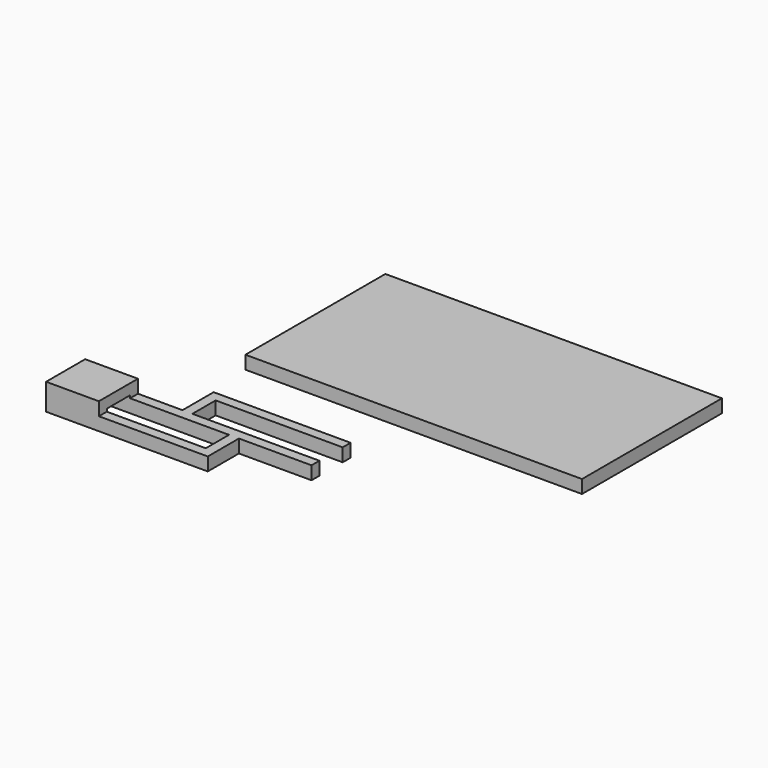
from build123d import *

# Parameters (mm, degrees)
F0_W      = 51
F0_H      = 26.5
F1_DEPTH  = 2
F2_W      = 24.5
F2_H      = 7.4
F3_DEPTH  = 4
F4_W      = 4.4
F4_H      = 2.4
F5_DEPTH  = 23
F6_W      = 16.5
F6_H      = 2
F7_DEPTH  = 49.6448081987
F10_R     = 1.5
F11_R     = 1.5
F14_W     = 1.5
F14_H     = 2
F15_DEPTH = 11
F16_W     = 1.5
F16_H     = 2
F17_DEPTH = 5.9
F18_W     = 1.5
F18_H     = 2
F19_DEPTH = 19.25


with BuildPart() as f1:
    # F0 (on Top) → F1 (new body)
    with BuildSketch(Plane.XY):
        Rectangle(F0_W, F0_H)
    extrude(amount=F1_DEPTH)


with BuildPart() as f3:
    # F2 (on Top) → F3 (new body)
    with BuildSketch(Plane.XY):
        with Locations((-24.9405779243, -32.6938081987)):
            Rectangle(F2_W, F2_H)
    extrude(amount=F3_DEPTH)

    # F4 (on face) → F5 (cut)
    with BuildSketch(Plane(origin=(-37.1905779243, 0, 0), x_dir=(0, -1, 0), z_dir=(-1, 0, 0))):
        with Locations((32.6938081987, 1.2)):
            Rectangle(F4_W, F4_H)
    extrude(amount=-F5_DEPTH, mode=Mode.SUBTRACT)

    # F6 (on face) → F7 (cut, through all)
    with BuildSketch(Plane.XZ.offset(36.3938081987)):
        with Locations((-20.9405779243, 3)):
            Rectangle(F6_W, F6_H)
    extrude(amount=-F7_DEPTH, mode=Mode.SUBTRACT)


with BuildPart() as f8_1:
    # F8: instance of F3
    add(f3.part.mirror(Plane.XZ))


with BuildPart() as f9_1:
    # F9: instance of F3
    add(f3.part.mirror(Plane.YZ))

    # F10
    f10_edges = [f9_1.edges().sort_by_distance(p)[0] for p in [
        (33.190578, -36.393808, 4),
    ]]
    fillet(f10_edges, radius=F10_R)

    # F11
    f11_edges = [f9_1.edges().sort_by_distance(p)[0] for p in [
        (33.190578, -28.993808, 4),
    ]]
    fillet(f11_edges, radius=F11_R)


with BuildPart() as f3_1:
    add(f3.part)

    # F14 (on face) → F15 (join)
    with BuildSketch(Plane.YZ.offset(-12.6905779243)):
        with Locations((-29.7438081987, 1)):
            Rectangle(F14_W, F14_H)
    extrude(amount=F15_DEPTH)

    # F16 (on face) → F17 (join)
    with BuildSketch(Plane(origin=(0, -28.9938081987, 0), x_dir=(-1, 0, 0), z_dir=(0, 1, 0))):
        with Locations((21.6905779243, 1)):
            Rectangle(F16_W, F16_H)
    extrude(amount=F17_DEPTH)

    # F18 (on face) → F19 (join)
    with BuildSketch(Plane.YZ.offset(-20.9405779243)):
        with Locations((-23.8438081987, 1)):
            Rectangle(F18_W, F18_H)
    extrude(amount=F19_DEPTH)


solid = Compound([f1.part, f3_1.part])
